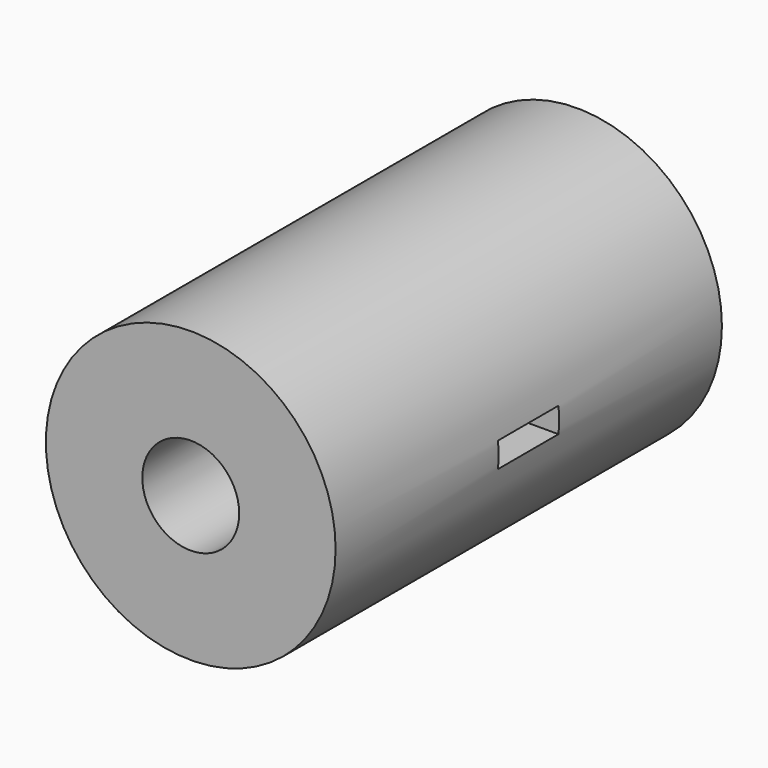
from build123d import *

# Parameters (mm, degrees)
F0_R     = 45
F1_DEPTH = 75
F2_R     = 15.05
F3_DEPTH = 150
F4_W     = 23.5
F4_H     = 7.8
F5_DEPTH = 63


with BuildPart() as f1:
    # F0 (on Front) → F1 (new body, symmetric)
    with BuildSketch(Plane.XZ):
        Circle(F0_R)
    extrude(amount=F1_DEPTH, both=True)

    # F2 (on face) → F3 (cut, symmetric)
    with BuildSketch(Plane.XZ.offset(75)):
        Circle(F2_R)
    extrude(amount=F3_DEPTH, both=True, mode=Mode.SUBTRACT)

    # F4 (on Right) → F5 (cut, symmetric)
    with BuildSketch(Plane.YZ):
        Rectangle(F4_W, F4_H)
    extrude(amount=F5_DEPTH, both=True, mode=Mode.SUBTRACT)


solid = f1.part
